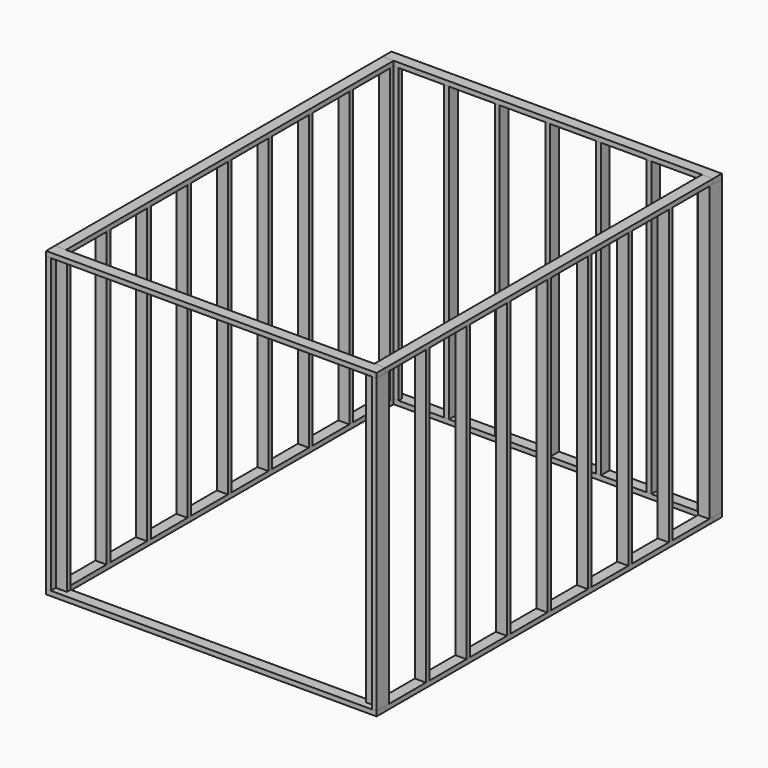
from build123d import *

# Parameters (mm, degrees)
F1_DEPTH       = 2352.675
F0_W           = 38.1
F0_H           = 88.9
F0_W_2         = 88.9
F0_H_2         = 38.1
F2_W           = 88.9
F2_H           = 38.1
F3_DEPTH       = 3251.2
F3_DEPTH_BACK  = 38.1
F4_W           = 88.9
F4_H           = 38.1
F5_DEPTH       = 3251.2
F5_DEPTH_BACK  = 38.1
F7_DEPTH       = 2616.2
F7_DEPTH_BACK  = 38.1
F9_DEPTH       = 2616.2
F9_DEPTH_BACK  = 38.1
F10_W          = 88.9
F10_H          = 38.1
F11_DEPTH      = 3251.2
F11_DEPTH_BACK = 38.1
F12_W          = 88.9
F12_H          = 38.1
F13_DEPTH      = 3251.2
F13_DEPTH_BACK = 38.1
F15_DEPTH      = 2616.2
F15_DEPTH_BACK = 38.1
F16_W          = 88.9
F16_H          = 38.1
F17_DEPTH      = 2616.2
F17_DEPTH_BACK = 38.1


with BuildPart() as f1:
    # F0 (on Top) → F1 (new body)
    with BuildSketch(Plane.XY):
        Polygon((-1327.15, 1606.55), (-1238.25, 1606.55), (-1238.25, 1625.6), (-1238.25, 1644.65), (-1289.05, 1644.65), (-1327.15, 1644.65), align=None)
        Polygon((-1327.15, 1733.55), (-1327.15, 1644.65), (-1289.05, 1644.65), (-1289.05, 1682.75), (-1289.05, 1733.55), align=None)
        Polygon((-1289.05, 1644.65), (-1238.25, 1644.65), (-1200.15, 1644.65), (-1200.15, 1682.75), (-1289.05, 1682.75), align=None)
    extrude(amount=F1_DEPTH)


with BuildPart() as f1b:
    # F0 (on Top) → F1, piece 2 (new body)
    with BuildSketch(Plane.XY):
        with Locations((-812.8, 1689.1)):
            Rectangle(F0_W, F0_H)
    extrude(amount=F1_DEPTH)


with BuildPart() as f1c:
    # F0 (on Top) → F1, piece 3 (new body)
    with BuildSketch(Plane.XY):
        with Locations((-406.4, 1689.1)):
            Rectangle(F0_W, F0_H)
    extrude(amount=F1_DEPTH)


with BuildPart() as f1d:
    # F0 (on Top) → F1, piece 4 (new body)
    with BuildSketch(Plane.XY):
        with Locations((0, 1689.1)):
            Rectangle(F0_W, F0_H)
    extrude(amount=F1_DEPTH)


with BuildPart() as f1e:
    # F0 (on Top) → F1, piece 5 (new body)
    with BuildSketch(Plane.XY):
        with Locations((406.4, 1689.1)):
            Rectangle(F0_W, F0_H)
    extrude(amount=F1_DEPTH)


with BuildPart() as f1f:
    # F0 (on Top) → F1, piece 6 (new body)
    with BuildSketch(Plane.XY):
        Polygon((1200.15, 1644.65), (1238.25, 1644.65), (1282.7, 1644.65), (1289.05, 1644.65), (1289.05, 1682.75), (1200.15, 1682.75), align=None)
        Polygon((1289.05, 1644.65), (1327.15, 1644.65), (1327.15, 1733.55), (1289.05, 1733.55), (1289.05, 1682.75), align=None)
        Polygon((1238.25, 1644.65), (1238.25, 1606.55), (1327.15, 1606.55), (1327.15, 1644.65), (1289.05, 1644.65), (1282.7, 1644.65), align=None)
    extrude(amount=F1_DEPTH)


with BuildPart() as f1g:
    # F0 (on Top) → F1, piece 7 (new body)
    with BuildSketch(Plane.XY):
        with Locations((1282.7, 1219.2)):
            Rectangle(F0_W_2, F0_H_2)
    extrude(amount=F1_DEPTH)


with BuildPart() as f1h:
    # F0 (on Top) → F1, piece 8 (new body)
    with BuildSketch(Plane.XY):
        with Locations((1282.7, 812.8)):
            Rectangle(F0_W_2, F0_H_2)
    extrude(amount=F1_DEPTH)


with BuildPart() as f1i:
    # F0 (on Top) → F1, piece 9 (new body)
    with BuildSketch(Plane.XY):
        with Locations((1282.7, 406.4)):
            Rectangle(F0_W_2, F0_H_2)
    extrude(amount=F1_DEPTH)


with BuildPart() as f1j:
    # F0 (on Top) → F1, piece 10 (new body)
    with BuildSketch(Plane.XY):
        with Locations((1282.7, 0)):
            Rectangle(F0_W_2, F0_H_2)
    extrude(amount=F1_DEPTH)


with BuildPart() as f1k:
    # F0 (on Top) → F1, piece 11 (new body)
    with BuildSketch(Plane.XY):
        with Locations((1282.7, -406.4)):
            Rectangle(F0_W_2, F0_H_2)
    extrude(amount=F1_DEPTH)


with BuildPart() as f1l:
    # F0 (on Top) → F1, piece 12 (new body)
    with BuildSketch(Plane.XY):
        with Locations((1282.7, -812.8)):
            Rectangle(F0_W_2, F0_H_2)
    extrude(amount=F1_DEPTH)


with BuildPart() as f1m:
    # F0 (on Top) → F1, piece 13 (new body)
    with BuildSketch(Plane.XY):
        with Locations((1282.7, -1219.2)):
            Rectangle(F0_W_2, F0_H_2)
    extrude(amount=F1_DEPTH)


with BuildPart() as f1n:
    # F0 (on Top) → F1, piece 14 (new body)
    with BuildSketch(Plane.XY):
        Polygon((1238.25, -1606.55), (1238.25, -1644.65), (1289.05, -1644.65), (1327.15, -1644.65), (1327.15, -1606.55), align=None)
        Polygon((1289.05, -1644.65), (1238.25, -1644.65), (1200.15, -1644.65), (1200.15, -1682.75), (1289.05, -1682.75), align=None)
        Polygon((1327.15, -1644.65), (1289.05, -1644.65), (1289.05, -1682.75), (1289.05, -1733.55), (1327.15, -1733.55), align=None)
    extrude(amount=F1_DEPTH)


with BuildPart() as f1o:
    # F0 (on Top) → F1, piece 15 (new body)
    with BuildSketch(Plane.XY):
        Polygon((-1200.15, -1682.75), (-1200.15, -1644.65), (-1238.25, -1644.65), (-1289.05, -1644.65), (-1289.05, -1682.75), align=None)
        Polygon((-1289.05, -1682.75), (-1289.05, -1644.65), (-1327.15, -1644.65), (-1327.15, -1733.55), (-1289.05, -1733.55), align=None)
        Polygon((-1289.05, -1644.65), (-1238.25, -1644.65), (-1238.25, -1625.6), (-1238.25, -1606.55), (-1327.15, -1606.55), (-1327.15, -1644.65), align=None)
    extrude(amount=F1_DEPTH)


with BuildPart() as f1p:
    # F0 (on Top) → F1, piece 16 (new body)
    with BuildSketch(Plane.XY):
        with Locations((-1282.7, -1219.2)):
            Rectangle(F0_W_2, F0_H_2)
    extrude(amount=F1_DEPTH)


with BuildPart() as f1q:
    # F0 (on Top) → F1, piece 17 (new body)
    with BuildSketch(Plane.XY):
        with Locations((-1282.7, -812.8)):
            Rectangle(F0_W_2, F0_H_2)
    extrude(amount=F1_DEPTH)


with BuildPart() as f1r:
    # F0 (on Top) → F1, piece 18 (new body)
    with BuildSketch(Plane.XY):
        with Locations((-1282.7, -406.4)):
            Rectangle(F0_W_2, F0_H_2)
    extrude(amount=F1_DEPTH)


with BuildPart() as f1s:
    # F0 (on Top) → F1, piece 19 (new body)
    with BuildSketch(Plane.XY):
        with Locations((-1282.7, 0)):
            Rectangle(F0_W_2, F0_H_2)
    extrude(amount=F1_DEPTH)


with BuildPart() as f1t:
    # F0 (on Top) → F1, piece 20 (new body)
    with BuildSketch(Plane.XY):
        with Locations((-1282.7, 406.4)):
            Rectangle(F0_W_2, F0_H_2)
    extrude(amount=F1_DEPTH)


with BuildPart() as f1u:
    # F0 (on Top) → F1, piece 21 (new body)
    with BuildSketch(Plane.XY):
        with Locations((-1282.7, 812.8)):
            Rectangle(F0_W_2, F0_H_2)
    extrude(amount=F1_DEPTH)


with BuildPart() as f1v:
    # F0 (on Top) → F1, piece 22 (new body)
    with BuildSketch(Plane.XY):
        with Locations((-1282.7, 1219.2)):
            Rectangle(F0_W_2, F0_H_2)
    extrude(amount=F1_DEPTH)


with BuildPart() as f1w:
    # F0 (on Top) → F1, piece 23 (new body)
    with BuildSketch(Plane.XY):
        with Locations((812.8, 1689.1)):
            Rectangle(F0_W, F0_H)
    extrude(amount=F1_DEPTH)


with BuildPart() as f3:
    # F2 (on face) → F3 (new body, two sides)
    with BuildSketch(Plane(origin=(0, -1606.55, 0), x_dir=(-1, 0, 0), z_dir=(0, 1, 0))) as f3_sk:
        with Locations((-1282.7, -19.05)):
            Rectangle(F2_W, F2_H)
    extrude(amount=F3_DEPTH)
    extrude(f3_sk.sketch, amount=-F3_DEPTH_BACK)


with BuildPart() as f5:
    # F4 (on face) → F5 (new body, two sides)
    with BuildSketch(Plane.XZ.offset(-1606.55)) as f5_sk:
        with Locations((-1282.7, -19.05)):
            Rectangle(F4_W, F4_H)
    extrude(amount=F5_DEPTH)
    extrude(f5_sk.sketch, amount=-F5_DEPTH_BACK)


with BuildPart() as f7:
    # F6 (on face) → F7 (new body, two sides)
    with BuildSketch(Plane.YZ.offset(-1289.05)) as f7_sk:
        Polygon((-1682.75, 0), (-1733.55, 0), (-1733.55, -38.1), (-1644.65, -38.1), (-1644.65, 0), align=None)
    extrude(amount=F7_DEPTH)
    extrude(f7_sk.sketch, amount=-F7_DEPTH_BACK)


with BuildPart() as f9:
    # F8 (on face) → F9 (new body, two sides)
    with BuildSketch(Plane.YZ.offset(-1289.05)) as f9_sk:
        Polygon((1733.55, -38.1), (1733.55, 0), (1682.75, 0), (1644.65, 0), (1644.65, -38.1), align=None)
    extrude(amount=F9_DEPTH)
    extrude(f9_sk.sketch, amount=-F9_DEPTH_BACK)


with BuildPart() as f11:
    # F10 (on face) → F11 (new body, two sides)
    with BuildSketch(Plane.XZ.offset(-1606.55)) as f11_sk:
        with Locations((1282.7, 2371.725)):
            Rectangle(F10_W, F10_H)
    extrude(amount=F11_DEPTH)
    extrude(f11_sk.sketch, amount=-F11_DEPTH_BACK)


with BuildPart() as f13:
    # F12 (on face) → F13 (new body, two sides)
    with BuildSketch(Plane.XZ.offset(-1606.55)) as f13_sk:
        with Locations((-1282.7, 2371.725)):
            Rectangle(F12_W, F12_H)
    extrude(amount=F13_DEPTH)
    extrude(f13_sk.sketch, amount=-F13_DEPTH_BACK)


with BuildPart() as f15:
    # F14 (on face) → F15 (new body, two sides)
    with BuildSketch(Plane.YZ.offset(-1289.05)) as f15_sk:
        Polygon((-1733.55, 2390.775), (-1733.55, 2352.675), (-1682.75, 2352.675), (-1644.65, 2352.675), (-1644.65, 2390.775), align=None)
    extrude(amount=F15_DEPTH)
    extrude(f15_sk.sketch, amount=-F15_DEPTH_BACK)


with BuildPart() as f17:
    # F16 (on face) → F17 (new body, two sides)
    with BuildSketch(Plane.YZ.offset(-1289.05)) as f17_sk:
        with Locations((1689.1, 2371.725)):
            Rectangle(F16_W, F16_H)
    extrude(amount=F17_DEPTH)
    extrude(f17_sk.sketch, amount=-F17_DEPTH_BACK)


solid = Compound([f1.part, f1b.part, f1c.part, f1d.part, f1e.part, f1f.part, f1g.part, f1h.part, f1i.part, f1j.part, f1k.part, f1l.part, f1m.part, f1n.part, f1o.part, f1p.part, f1q.part, f1r.part, f1s.part, f1t.part, f1u.part, f1v.part, f1w.part, f3.part, f5.part, f7.part, f9.part, f11.part, f13.part, f15.part, f17.part])
